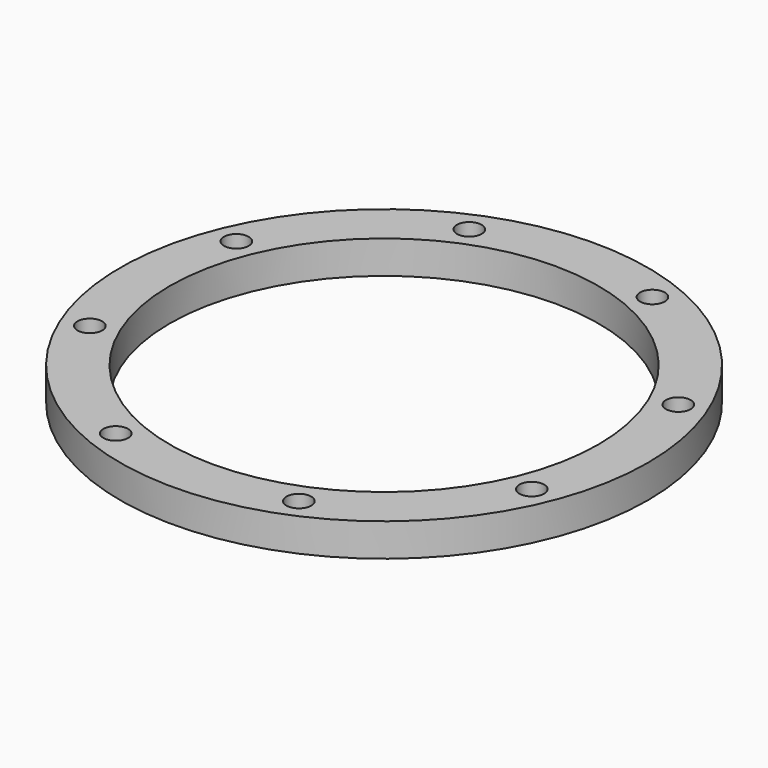
from build123d import *

# Parameters (mm, degrees)
CYLINDER1907_R               = 3
CYLINDER1907_DEPTH           = 3
CYLINDER1907_PLACEMENT_ANGLE = 67.5
CYLINDER1905_R               = 3
CYLINDER1905_DEPTH           = 3
CYLINDER1905_PLACEMENT_ANGLE = 112.5
CYLINDER1297_R               = 3
CYLINDER1297_DEPTH           = 3
CYLINDER1297_PLACEMENT_ANGLE = 157.5
CYLINDER1908_R               = 3
CYLINDER1908_DEPTH           = 3
CYLINDER1908_PLACEMENT_ANGLE = 202.5
CYLINDER1296_R               = 3
CYLINDER1296_DEPTH           = 3
CYLINDER1296_PLACEMENT_ANGLE = 112.5
CYLINDER1906_R               = 3
CYLINDER1906_DEPTH           = 3
CYLINDER1906_PLACEMENT_ANGLE = 67.5
CYLINDER1298_R               = 3
CYLINDER1298_DEPTH           = 3
CYLINDER1298_PLACEMENT_ANGLE = 22.5
CYLINDER1904_R               = 3
CYLINDER1904_DEPTH           = 3
CYLINDER1904_PLACEMENT_ANGLE = 22.5
CYLINDER1896_R               = 1.5
CYLINDER1896_DEPTH           = 20
CYLINDER1896_PLACEMENT_ANGLE = 67.5
CYLINDER1899_R               = 1.5
CYLINDER1899_DEPTH           = 20
CYLINDER1899_PLACEMENT_ANGLE = 112.5
CYLINDER1902_R               = 1.5
CYLINDER1902_DEPTH           = 20
CYLINDER1902_PLACEMENT_ANGLE = 157.5
CYLINDER1903_R               = 1.5
CYLINDER1903_DEPTH           = 20
CYLINDER1903_PLACEMENT_ANGLE = 202.5
CYLINDER1900_R               = 1.5
CYLINDER1900_DEPTH           = 20
CYLINDER1900_PLACEMENT_ANGLE = 112.5
CYLINDER1897_R               = 1.5
CYLINDER1897_DEPTH           = 20
CYLINDER1897_PLACEMENT_ANGLE = 67.5
CYLINDER1901_R               = 1.5
CYLINDER1901_DEPTH           = 20
CYLINDER1901_PLACEMENT_ANGLE = 22.5
CYLINDER1898_R               = 1.5
CYLINDER1898_DEPTH           = 20
CYLINDER1898_PLACEMENT_ANGLE = 22.5
TUBE012_R                    = 32
TUBE012_R_2                  = 26
TUBE012_DEPTH                = 4


with BuildPart() as obj1:
    # Cylinder1907 → Cylinder1907 (new body)
    with BuildSketch(Plane.XY):
        Circle(CYLINDER1907_R)
    extrude(amount=CYLINDER1907_DEPTH)


with BuildPart() as obj1_1:
    # Cylinder1907 placement: moved
    add(obj1.part.moved(Location((11.1, 26.79, -50))).rotate(Axis((11.1, 26.79, -50), (0, 0, 1)), CYLINDER1907_PLACEMENT_ANGLE))


with BuildPart() as obj2:
    # Cylinder1905 → Cylinder1905 (new body)
    with BuildSketch(Plane.XY):
        Circle(CYLINDER1905_R)
    extrude(amount=CYLINDER1905_DEPTH)


with BuildPart() as obj2_1:
    # Cylinder1905 placement: moved
    add(obj2.part.moved(Location((-11.1, 26.79, -50))).rotate(Axis((-11.1, 26.79, -50), (0, 0, 1)), CYLINDER1905_PLACEMENT_ANGLE))


with BuildPart() as obj3:
    # Cylinder1297 → Cylinder1297 (new body)
    with BuildSketch(Plane.XY):
        Circle(CYLINDER1297_R)
    extrude(amount=CYLINDER1297_DEPTH)


with BuildPart() as obj3_1:
    # Cylinder1297 placement: moved
    add(obj3.part.moved(Location((-26.79, 11.1, -50))).rotate(Axis((-26.79, 11.1, -50), (0, 0, 1)), CYLINDER1297_PLACEMENT_ANGLE))


with BuildPart() as obj4:
    # Cylinder1908 → Cylinder1908 (new body)
    with BuildSketch(Plane.XY):
        Circle(CYLINDER1908_R)
    extrude(amount=CYLINDER1908_DEPTH)


with BuildPart() as obj4_1:
    # Cylinder1908 placement: moved
    add(obj4.part.moved(Location((-26.79, -11.1, -50))).rotate(Axis((-26.79, -11.1, -50), (0, 0, 1)), CYLINDER1908_PLACEMENT_ANGLE))


with BuildPart() as obj5:
    # Cylinder1296 → Cylinder1296 (new body)
    with BuildSketch(Plane.XY):
        Circle(CYLINDER1296_R)
    extrude(amount=CYLINDER1296_DEPTH)


with BuildPart() as obj5_1:
    # Cylinder1296 placement: moved
    add(obj5.part.moved(Location((-11.1, -26.79, -50))).rotate(Axis((-11.1, -26.79, -50), (0, 0, -1)), CYLINDER1296_PLACEMENT_ANGLE))


with BuildPart() as obj6:
    # Cylinder1906 → Cylinder1906 (new body)
    with BuildSketch(Plane.XY):
        Circle(CYLINDER1906_R)
    extrude(amount=CYLINDER1906_DEPTH)


with BuildPart() as obj6_1:
    # Cylinder1906 placement: moved
    add(obj6.part.moved(Location((11.1, -26.79, -50))).rotate(Axis((11.1, -26.79, -50), (0, 0, -1)), CYLINDER1906_PLACEMENT_ANGLE))


with BuildPart() as obj7:
    # Cylinder1298 → Cylinder1298 (new body)
    with BuildSketch(Plane.XY):
        Circle(CYLINDER1298_R)
    extrude(amount=CYLINDER1298_DEPTH)


with BuildPart() as obj7_1:
    # Cylinder1298 placement: moved
    add(obj7.part.moved(Location((26.79, -11.1, -50))).rotate(Axis((26.79, -11.1, -50), (0, 0, -1)), CYLINDER1298_PLACEMENT_ANGLE))


with BuildPart() as compound856:
    # Cylinder1904 → Cylinder1904 (new body)
    with BuildSketch(Plane.XY):
        Circle(CYLINDER1904_R)
    extrude(amount=CYLINDER1904_DEPTH)


with BuildPart() as compound856_1:
    # Cylinder1904 placement: moved
    add(compound856.part.moved(Location((26.79, 11.1, -50))).rotate(Axis((26.79, 11.1, -50), (0, 0, 1)), CYLINDER1904_PLACEMENT_ANGLE))

    # Compound856: union obj1, obj2, obj3, obj4, obj5, obj6, obj7
    add(obj1_1.part)
    add(obj2_1.part)
    add(obj3_1.part)
    add(obj4_1.part)
    add(obj5_1.part)
    add(obj6_1.part)
    add(obj7_1.part)


with BuildPart() as obj8:
    # Cylinder1896 → Cylinder1896 (new body)
    with BuildSketch(Plane.XY):
        Circle(CYLINDER1896_R)
    extrude(amount=CYLINDER1896_DEPTH)


with BuildPart() as obj8_1:
    # Cylinder1896 placement: moved
    add(obj8.part.moved(Location((11.1, 26.79, -50))).rotate(Axis((11.1, 26.79, -50), (0, 0, 1)), CYLINDER1896_PLACEMENT_ANGLE))


with BuildPart() as obj9:
    # Cylinder1899 → Cylinder1899 (new body)
    with BuildSketch(Plane.XY):
        Circle(CYLINDER1899_R)
    extrude(amount=CYLINDER1899_DEPTH)


with BuildPart() as obj9_1:
    # Cylinder1899 placement: moved
    add(obj9.part.moved(Location((-11.1, 26.79, -50))).rotate(Axis((-11.1, 26.79, -50), (0, 0, 1)), CYLINDER1899_PLACEMENT_ANGLE))


with BuildPart() as obj10:
    # Cylinder1902 → Cylinder1902 (new body)
    with BuildSketch(Plane.XY):
        Circle(CYLINDER1902_R)
    extrude(amount=CYLINDER1902_DEPTH)


with BuildPart() as obj10_1:
    # Cylinder1902 placement: moved
    add(obj10.part.moved(Location((-26.79, 11.1, -50))).rotate(Axis((-26.79, 11.1, -50), (0, 0, 1)), CYLINDER1902_PLACEMENT_ANGLE))


with BuildPart() as obj11:
    # Cylinder1903 → Cylinder1903 (new body)
    with BuildSketch(Plane.XY):
        Circle(CYLINDER1903_R)
    extrude(amount=CYLINDER1903_DEPTH)


with BuildPart() as obj11_1:
    # Cylinder1903 placement: moved
    add(obj11.part.moved(Location((-26.79, -11.1, -50))).rotate(Axis((-26.79, -11.1, -50), (0, 0, 1)), CYLINDER1903_PLACEMENT_ANGLE))


with BuildPart() as obj12:
    # Cylinder1900 → Cylinder1900 (new body)
    with BuildSketch(Plane.XY):
        Circle(CYLINDER1900_R)
    extrude(amount=CYLINDER1900_DEPTH)


with BuildPart() as obj12_1:
    # Cylinder1900 placement: moved
    add(obj12.part.moved(Location((-11.1, -26.79, -50))).rotate(Axis((-11.1, -26.79, -50), (0, 0, -1)), CYLINDER1900_PLACEMENT_ANGLE))


with BuildPart() as obj13:
    # Cylinder1897 → Cylinder1897 (new body)
    with BuildSketch(Plane.XY):
        Circle(CYLINDER1897_R)
    extrude(amount=CYLINDER1897_DEPTH)


with BuildPart() as obj13_1:
    # Cylinder1897 placement: moved
    add(obj13.part.moved(Location((11.1, -26.79, -50))).rotate(Axis((11.1, -26.79, -50), (0, 0, -1)), CYLINDER1897_PLACEMENT_ANGLE))


with BuildPart() as obj14:
    # Cylinder1901 → Cylinder1901 (new body)
    with BuildSketch(Plane.XY):
        Circle(CYLINDER1901_R)
    extrude(amount=CYLINDER1901_DEPTH)


with BuildPart() as obj14_1:
    # Cylinder1901 placement: moved
    add(obj14.part.moved(Location((26.79, -11.1, -50))).rotate(Axis((26.79, -11.1, -50), (0, 0, -1)), CYLINDER1901_PLACEMENT_ANGLE))


with BuildPart() as compound855:
    # Cylinder1898 → Cylinder1898 (new body)
    with BuildSketch(Plane.XY):
        Circle(CYLINDER1898_R)
    extrude(amount=CYLINDER1898_DEPTH)


with BuildPart() as compound855_1:
    # Cylinder1898 placement: moved
    add(compound855.part.moved(Location((26.79, 11.1, -50))).rotate(Axis((26.79, 11.1, -50), (0, 0, 1)), CYLINDER1898_PLACEMENT_ANGLE))

    # Compound855: union obj8, obj9, obj10, obj11, obj12, obj13, obj14
    add(obj8_1.part)
    add(obj9_1.part)
    add(obj10_1.part)
    add(obj11_1.part)
    add(obj12_1.part)
    add(obj13_1.part)
    add(obj14_1.part)


with BuildPart() as t_mini_washer:
    # Tube012 → Tube012 (new body)
    with BuildSketch(Plane.XY.offset(-47)):
        Circle(TUBE012_R)
        Circle(TUBE012_R_2, mode=Mode.SUBTRACT)
    extrude(amount=TUBE012_DEPTH)

    # Cut692: cut Compound855
    add(compound855_1.part, mode=Mode.SUBTRACT)


with BuildPart() as t_mini_washer_1:
    # Cut692 placement: moved
    add(t_mini_washer.part.moved(Location((0, 0, 2))))

    # Cut693: cut Compound856
    add(compound856_1.part, mode=Mode.SUBTRACT)


with BuildPart() as t_mini_washer_2:
    # Cut693 placement: moved
    add(t_mini_washer_1.part.moved(Location((0, 1, 1))))


solid = t_mini_washer_2.part
